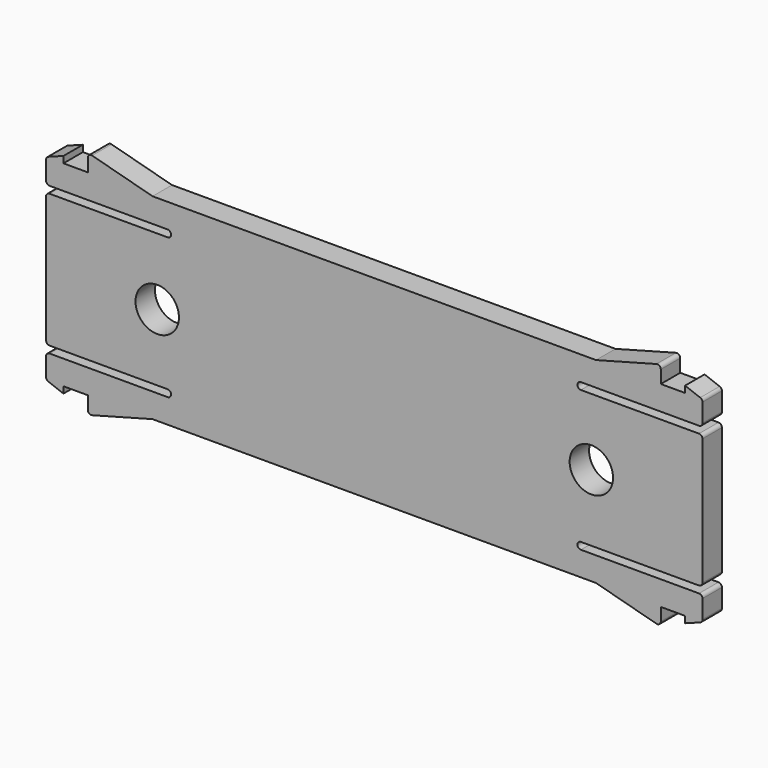
from build123d import *

# Parameters (mm, degrees)
PAD010_DEPTH    = 2.8
FILLET003_R     = 0.4
SKETCH016_R     = 2.5
POCKET003_DEPTH = 2.801


with BuildPart() as part:
    # Sketch010 (on Face2 of ShapeBinder009) → Pad010 (new body)
    with BuildSketch(Plane.XZ.offset(25.388718)):
        with BuildLine():
            Line((37.8, 63.127675), (37.8, 60.327675))
            Line((37.8, 60.327675), (23.8, 60.327675))
            ThreePointArc((23.8, 60.327675), (23.4, 59.927675), (23.8, 59.527675))
            Line((23.8, 59.527675), (37.8, 59.527675))
            Line((37.8, 59.527675), (37.8, 44.127675))
            Line((37.8, 44.127675), (23.8, 44.127675))
            ThreePointArc((23.8, 44.127675), (23.4, 43.727675), (23.8, 43.327675))
            Line((23.8, 43.327675), (37.8, 43.327675))
            Line((37.8, 43.327675), (37.8, 40.527675))
            Line((37.8, 40.527675), (35.8, 39.777675))
            Line((35.8, 40.527675), (35.8, 39.777675))
            Line((35.8, 40.527675), (33, 40.527675))
            Line((33, 40.527675), (33, 38.527675))
            Line((33, 38.527675), (25.535898, 40.527675))
            Line((25.535898, 40.527675), (-25.535898, 40.527675))
            Line((-25.535898, 40.527675), (-33, 38.527675))
            Line((-33, 38.527675), (-33, 40.527675))
            Line((-33, 40.527675), (-35.8, 40.527675))
            Line((-35.8, 40.527675), (-35.8, 39.777675))
            Line((-37.8, 40.527675), (-35.8, 39.777675))
            Line((-37.8, 40.527675), (-37.8, 43.327675))
            Line((-37.8, 43.327675), (-23.8, 43.327675))
            ThreePointArc((-23.8, 43.327675), (-23.4, 43.727675), (-23.8, 44.127675))
            Line((-23.8, 44.127675), (-37.8, 44.127675))
            Line((-37.8, 44.127675), (-37.8, 59.527675))
            Line((-37.8, 59.527675), (-23.8, 59.527675))
            ThreePointArc((-23.8, 59.527675), (-23.4, 59.927675), (-23.8, 60.327675))
            Line((-23.8, 60.327675), (-37.8, 60.327675))
            Line((-37.8, 60.327675), (-37.8, 63.127675))
            Line((-35.8, 63.877675), (-37.8, 63.127675))
            Line((-35.8, 63.127675), (-35.8, 63.877675))
            Line((-35.8, 63.127675), (-33, 63.127675))
            Line((-33, 63.127675), (-33, 65.127675))
            Line((-33, 65.127675), (-25.535898, 63.127675))
            Line((-25.535898, 63.127675), (25.535898, 63.127675))
            Line((25.535898, 63.127675), (33, 65.127675))
            Line((33, 65.127675), (33, 63.127675))
            Line((33, 63.127675), (35.8, 63.127675))
            Line((35.8, 63.127675), (35.8, 63.877675))
            Line((35.8, 63.877675), (37.8, 63.127675))
        make_face()
    extrude(amount=-PAD010_DEPTH)

    # Fillet003
    fillet003_edges = [part.edges().sort_by_distance(p)[0] for p in [
        (-33, -23.988718, 65.127675),
        (-37.8, -23.988718, 63.127675),
        (-37.8, -23.988718, 60.327675),
        (-37.8, -23.988718, 59.527675),
        (33, -23.988718, 65.127675),
        (37.8, -23.988718, 63.127675),
        (37.8, -23.988718, 60.327675),
        (37.8, -23.988718, 59.527675),
        (37.8, -23.988718, 44.127675),
        (37.8, -23.988718, 43.327675),
        (37.8, -23.988718, 40.527675),
        (33, -23.988718, 38.527675),
        (-33, -23.988718, 38.527675),
        (-37.8, -23.988718, 40.527675),
        (-37.8, -23.988718, 44.127675),
        (-37.8, -23.988718, 43.327675),
    ]]
    fillet(fillet003_edges, radius=FILLET003_R)

    # Sketch016 (on Face2 of Fillet003) → Pocket003 (cut, through all)
    with BuildSketch(Plane.XZ.offset(25.388718)):
        with Locations((-25, 51.827675)):
            Circle(SKETCH016_R)
        with Locations((25, 51.827675)):
            Circle(SKETCH016_R)
    extrude(amount=-POCKET003_DEPTH, mode=Mode.SUBTRACT)


solid = part.part
